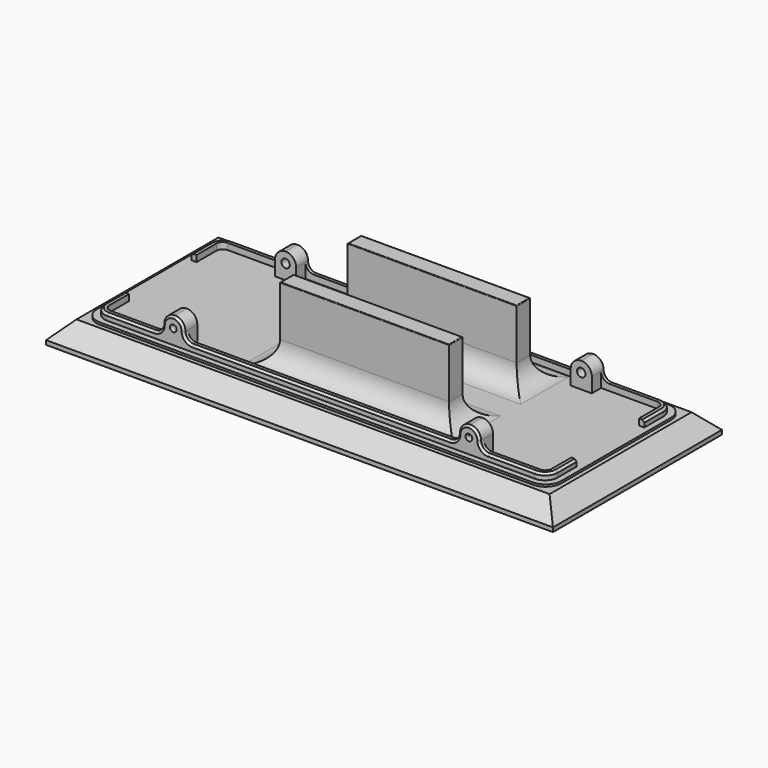
from build123d import *

# Parameters (mm, degrees)
SKETCH_W        = 220
SKETCH_H        = 80
PAD_DEPTH       = 1
SKETCH001_W     = 214.5
SKETCH001_H     = 74.5
SKETCH001_W_2   = 209.5
SKETCH001_H_2   = 69.5
PAD001_DEPTH    = 3
SKETCH002_W     = 2.5
SKETCH002_H     = 40
POCKET_DEPTH    = 3
SKETCH003_W     = 10
SKETCH003_H     = 8
PAD002_DEPTH    = 12
SKETCH008_W     = 80
SKETCH008_H     = 8
PAD003_DEPTH    = 33.8
SKETCH007_W     = 240
SKETCH007_H     = 100
PAD004_DEPTH    = 10
SKETCH009_R     = 1.6
POCKET001_DEPTH = 80
SKETCH010_R     = 2
POCKET002_DEPTH = 6
SKETCH011_R     = 2
POCKET003_DEPTH = 6
FILLET_R        = 3
FILLET001_R     = 6
FILLET002_R     = 7.5
FILLET003_R     = 4.99
FILLET004_R     = 4
CHAMFER_SIZE    = 1
CHAMFER001_SIZE = 1
FILLET005_R     = 10
FILLET006_R     = 0.3
CHAMFER002_SIZE = 8


with BuildPart() as part:
    # Sketch → Pad (new body)
    with BuildSketch(Plane.XY):
        Rectangle(SKETCH_W, SKETCH_H)
    extrude(amount=PAD_DEPTH)

    # Sketch001 (on Face6 of Pad) → Pad001 (join)
    with BuildSketch(Plane.XY.offset(1)):
        Rectangle(SKETCH001_W, SKETCH001_H)
        Rectangle(SKETCH001_W_2, SKETCH001_H_2, mode=Mode.SUBTRACT)
    extrude(amount=PAD001_DEPTH)

    # Sketch002 (on Face11 of Pad001) → Pocket (cut)
    with BuildSketch(Plane.XY.offset(4)):
        with Locations((-106, 0)):
            Rectangle(SKETCH002_W, SKETCH002_H)
        with Locations((106, 0)):
            Rectangle(SKETCH002_W, SKETCH002_H)
    extrude(amount=-POCKET_DEPTH, mode=Mode.SUBTRACT)

    # Sketch003 → Pad002 (join)
    with BuildSketch(Plane.XY.offset(1)):
        with Locations((-70, 33.25)):
            Rectangle(SKETCH003_W, SKETCH003_H)
        with Locations((70, 33.25)):
            Rectangle(SKETCH003_W, SKETCH003_H)
        with Locations((70, -33.25)):
            Rectangle(SKETCH003_W, SKETCH003_H)
        with Locations((-70, -33.25)):
            Rectangle(SKETCH003_W, SKETCH003_H)
    extrude(amount=PAD002_DEPTH)

    # Sketch008 → Pad003 (join)
    with BuildSketch(Plane.XY.offset(1)):
        with Locations((10, 20)):
            Rectangle(SKETCH008_W, SKETCH008_H)
        with Locations((10, -20)):
            Rectangle(SKETCH008_W, SKETCH008_H)
    extrude(amount=PAD003_DEPTH)

    # Sketch007 → Pad004 (join)
    with BuildSketch(Plane(origin=(0, 0, 0), x_dir=(1, 0, 0), z_dir=(0, 0, -1))):
        Rectangle(SKETCH007_W, SKETCH007_H)
    extrude(amount=PAD004_DEPTH)

    # Sketch009 (on Face13 of Pad004) → Pocket001 (cut)
    with BuildSketch(Plane.XZ.offset(37.25)):
        with Locations((-70, 8)):
            Circle(SKETCH009_R)
        with Locations((70, 8)):
            Circle(SKETCH009_R)
    extrude(amount=-POCKET001_DEPTH, mode=Mode.SUBTRACT)

    # Sketch010 (on Face25 of Pocket001) → Pocket002 (cut)
    with BuildSketch(Plane(origin=(0, -29.25, 0), x_dir=(-1, 0, 0), z_dir=(0, 1, 0))):
        with Locations((-70, 8)):
            Circle(SKETCH010_R)
        with Locations((70, 8)):
            Circle(SKETCH010_R)
    extrude(amount=-POCKET002_DEPTH, mode=Mode.SUBTRACT)

    # Sketch011 (on Face48 of Pocket002) → Pocket003 (cut)
    with BuildSketch(Plane.XZ.offset(-29.25)):
        with Locations((-70, 8)):
            Circle(SKETCH011_R)
        with Locations((70, 8)):
            Circle(SKETCH011_R)
    extrude(amount=-POCKET003_DEPTH, mode=Mode.SUBTRACT)

    # Fillet
    fillet_edges = [part.edges().sort_by_distance(p)[0] for p in [
        (104.75, -34.75, 2.5),
        (104.75, 34.75, 2.5),
        (-104.75, -34.75, 2.5),
        (-104.75, 34.75, 2.5),
    ]]
    fillet(fillet_edges, radius=FILLET_R)

    # Fillet001
    fillet001_edges = [part.edges().sort_by_distance(p)[0] for p in [
        (-107.25, 37.25, 2.5),
        (-107.25, -37.25, 2.5),
        (107.25, 37.25, 2.5),
        (107.25, -37.25, 2.5),
    ]]
    fillet(fillet001_edges, radius=FILLET001_R)

    # Fillet002
    fillet002_edges = [part.edges().sort_by_distance(p)[0] for p in [
        (110, 40, 0.5),
        (-110, 40, 0.5),
        (110, -40, 0.5),
        (-110, -40, 0.5),
    ]]
    fillet(fillet002_edges, radius=FILLET002_R)

    # Fillet003
    fillet003_edges = [part.edges().sort_by_distance(p)[0] for p in [
        (75, 33.25, 13),
        (65, 33.25, 13),
        (75, -33.25, 13),
        (65, -33.25, 13),
        (-65, 33.25, 13),
        (-75, 33.25, 13),
        (-65, -33.25, 13),
        (-75, -33.25, 13),
    ]]
    fillet(fillet003_edges, radius=FILLET003_R)

    # Fillet004
    fillet004_edges = [part.edges().sort_by_distance(p)[0] for p in [
        (75, 36, 4),
        (75, -36, 4),
        (-65, -36, 4),
        (-65, 36, 4),
        (-75, 36, 4),
        (-75, -36, 4),
        (65, -36, 4),
        (65, 36, 4),
    ]]
    fillet(fillet004_edges, radius=FILLET004_R)

    # Chamfer
    chamfer_edges = [part.edges().sort_by_distance(p)[0] for p in [
        (66.461537, -37.25, 11.538463),
    ]]
    chamfer(chamfer_edges, length=CHAMFER_SIZE)

    # Chamfer001
    chamfer001_edges = [part.edges().sort_by_distance(p)[0] for p in [
        (-73.538463, 37.25, 11.538463),
    ]]
    chamfer(chamfer001_edges, length=CHAMFER001_SIZE)

    # Fillet005
    fillet005_edges = [part.edges().sort_by_distance(p)[0] for p in [
        (10, 24, 1),
        (50, 20, 1),
        (50, -20, 1),
        (10, -16, 1),
        (-30, 20, 1),
        (10, 16, 1),
        (-30, -20, 1),
        (10, -24, 1),
    ]]
    fillet(fillet005_edges, radius=FILLET005_R)

    # Fillet006
    fillet006_edges = [part.edges().sort_by_distance(p)[0] for p in [
        (-30, -20, 34.8),
        (-30, 20, 34.8),
        (50, 20, 34.8),
        (50, -20, 34.8),
        (10, -16, 34.8),
        (10, -24, 34.8),
        (10, 16, 34.8),
        (10, 24, 34.8),
    ]]
    fillet(fillet006_edges, radius=FILLET006_R)

    # Chamfer002
    chamfer002_edges = [part.edges().sort_by_distance(p)[0] for p in [
        (0, -50, 0),
        (-120, 0, 0),
        (0, 50, 0),
        (120, 0, 0),
    ]]
    chamfer(chamfer002_edges, length=CHAMFER002_SIZE)


solid = part.part
